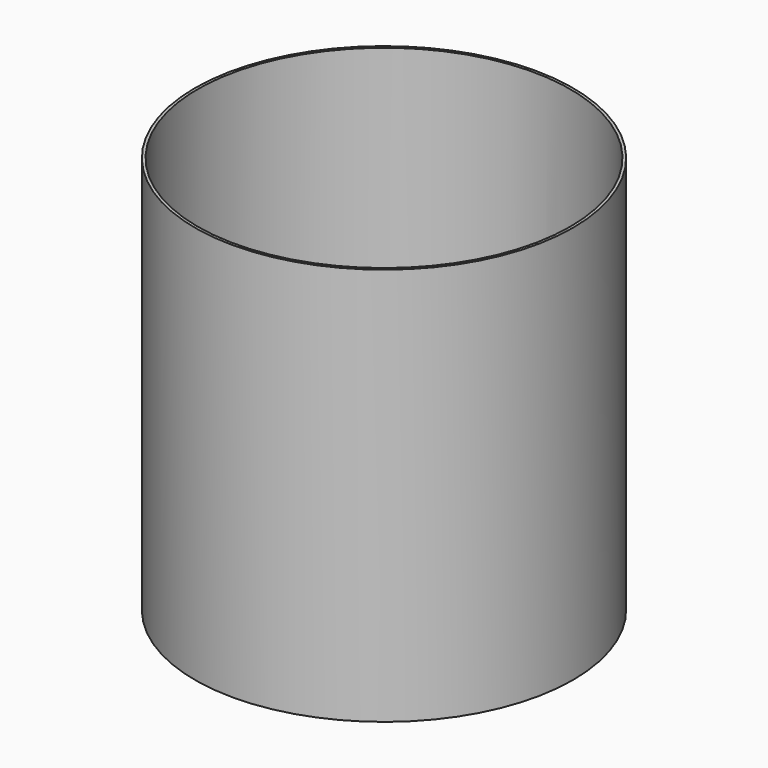
from build123d import *

# Parameters (mm, degrees)
F0_R     = 168.91
F0_R_2   = 166.37
F1_DEPTH = 355.6
F2_R     = 12.7
F3_DEPTH = 168.911


with BuildPart() as f1:
    # F0 (on Top) → F1 (new body)
    with BuildSketch(Plane.XY):
        Circle(F0_R)
        Circle(F0_R_2, mode=Mode.SUBTRACT)
    extrude(amount=F1_DEPTH)

    # F2 (on Front) → F3 (cut, through all)
    with BuildSketch(Plane.XZ):
        with Locations((0, 177.8)):
            Circle(F2_R)
    extrude(amount=-F3_DEPTH, mode=Mode.SUBTRACT)


solid = f1.part
